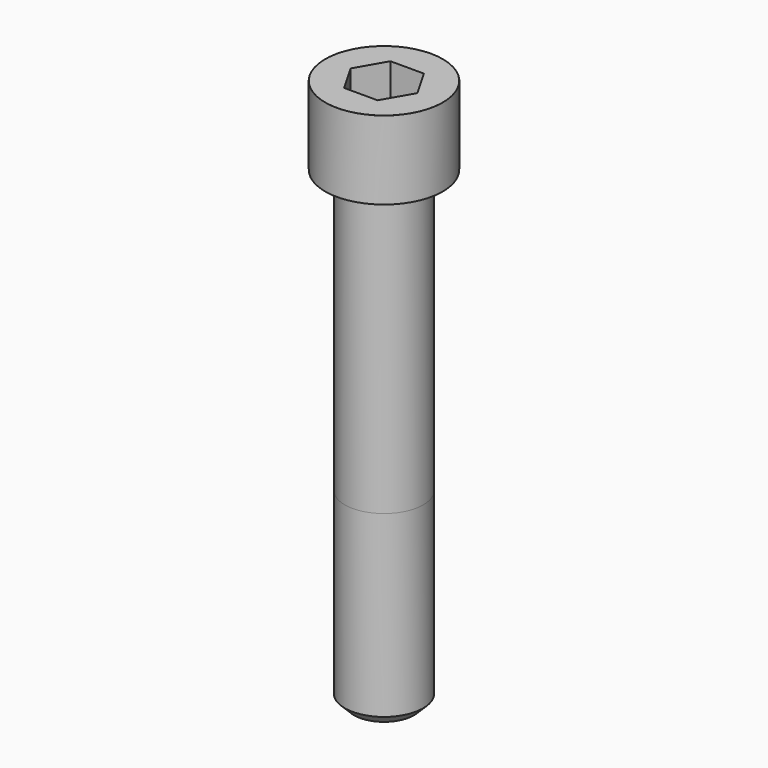
from build123d import *

# Parameters (mm, degrees)
POCKET_DEPTH = 22.15


with BuildPart() as part:
    # Sketch → Revolve (revolve)
    with BuildSketch(Plane.YZ):
        with BuildLine():
            Line((14.999, 0), (22.5, 0))
            Line((22.5, 0), (22.5, 29.97229))
            ThreePointArc((22.5, 29.97229), (22.491884, 29.991884), (22.47229, 30))
            Line((22.47229, 30), (0, 30))
            Line((0, -180), (0, 30))
            Line((11.5, -180), (0, -180))
            Line((15, -176.5), (11.5, -180))
            Line((15, -108), (15, -176.5))
            Line((14.999, 0), (15, -108))
        make_face()
    revolve(axis=Axis((0, 0, 0), (0, 0, 1)))

    # Sketch001 → Pocket (cut)
    with BuildSketch(Plane.XY.offset(30)):
        Polygon((12.788308, 0), (6.394154, 11.075), (-6.394154, 11.075), (-12.788308, 0), (-6.394154, -11.075), (6.394154, -11.075), align=None)
    extrude(amount=-POCKET_DEPTH, mode=Mode.SUBTRACT)


solid = part.part
